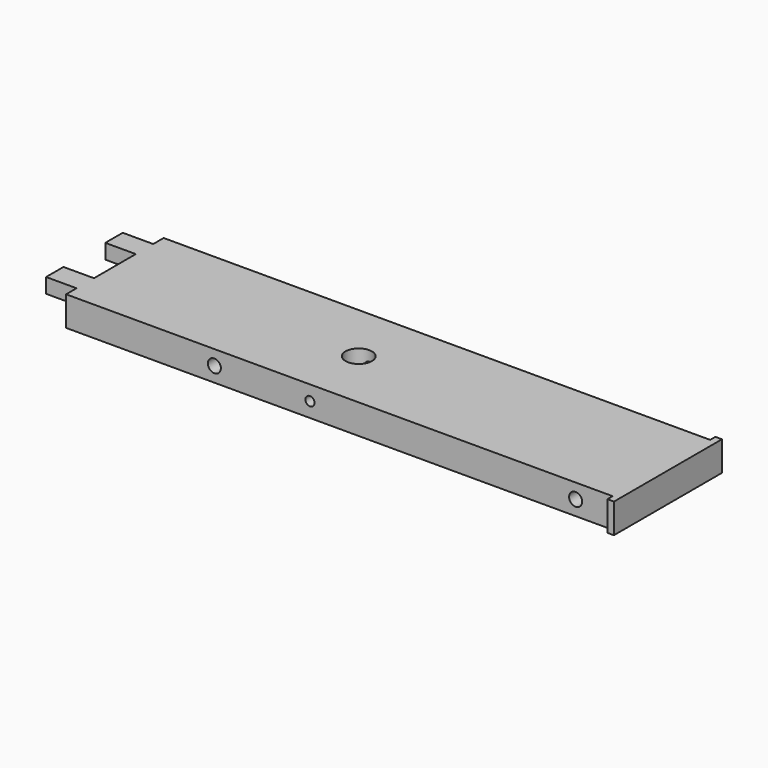
from build123d import *

# Parameters (mm, degrees)
SKETCH015_W     = 127
SKETCH015_H     = 28
PAD006_DEPTH    = 6.8
SKETCH016_W     = 1.5
SKETCH016_H     = 6.8
PAD007_DEPTH    = 1.5
SKETCH017_W     = 1.5
SKETCH017_H     = 6.8
PAD008_DEPTH    = 1.5
SKETCH018_R     = 3.03
POCKET007_DEPTH = 6.801
SKETCH019_R     = 1.05
SKETCH019_R_2   = 1.5
POCKET008_DEPTH = 29.501
SKETCH020_W     = 101
SKETCH020_H     = 5.7
POCKET009_DEPTH = 1.69
SKETCH022_W     = 5
SKETCH022_H     = 3.4
PAD010_DEPTH    = 7


with BuildPart() as pocket009:
    # Sketch015 → Pad006 (new body)
    with BuildSketch(Plane.XY):
        with Locations((-63.932219, -3.966905)):
            Rectangle(SKETCH015_W, SKETCH015_H)
    extrude(amount=PAD006_DEPTH)

    # Sketch016 → Pad007 (new body)
    with BuildSketch(Plane.XZ.offset(17.966905)):
        with Locations((-126.682219, 3.4)):
            Rectangle(SKETCH016_W, SKETCH016_H)
    extrude(amount=PAD007_DEPTH)

    # Sketch017 → Pad008 (new body)
    with BuildSketch(Plane(origin=(0, 10.033095, 0), x_dir=(-1, 0, 0), z_dir=(0, 1, 0))):
        with Locations((126.682219, 3.4)):
            Rectangle(SKETCH017_W, SKETCH017_H)
    extrude(amount=PAD008_DEPTH)

    # Sketch018 → Pocket007 (cut, through all)
    with BuildSketch(Plane.XY.offset(6.8)):
        with Locations((-56.432219, -3.966905)):
            Circle(SKETCH018_R)
    extrude(amount=-POCKET007_DEPTH, mode=Mode.SUBTRACT)

    # Sketch019 → Pocket008 (cut, through all)
    with BuildSketch(Plane.XZ.offset(17.966905)):
        with Locations((-56.432219, 3.4)):
            Circle(SKETCH019_R)
        with Locations((-117.432219, 3.4)):
            Circle(SKETCH019_R_2)
        with Locations((-34.475986, 3.4)):
            Circle(SKETCH019_R_2)
    extrude(amount=-POCKET008_DEPTH, mode=Mode.SUBTRACT)

    # Sketch020 → Pocket009 (cut)
    with BuildSketch(Plane(origin=(0, 0, 0), x_dir=(1, 0, 0), z_dir=(0, 0, -1))):
        with Locations((-50.932219, 11.516905)):
            Rectangle(SKETCH020_W, SKETCH020_H)
    extrude(amount=-POCKET009_DEPTH, mode=Mode.SUBTRACT)


with BuildPart() as pad010:
    # Part__Mirroring: instance of Pocket009
    add(pocket009.part.mirror(Plane(origin=(0, 0, 0), x_dir=(0, -1, 0), z_dir=(1, 0, 0))))

    # Sketch022 → Pad010 (new body)
    with BuildSketch(Plane(origin=(0.432219, 0, 0), x_dir=(0, -1, 0), z_dir=(-1, 0, 0))):
        with Locations((-4.533095, 5.1)):
            Rectangle(SKETCH022_W, SKETCH022_H)
        with Locations((12.466905, 5.1)):
            Rectangle(SKETCH022_W, SKETCH022_H)
    extrude(amount=PAD010_DEPTH)


solid = pad010.part
